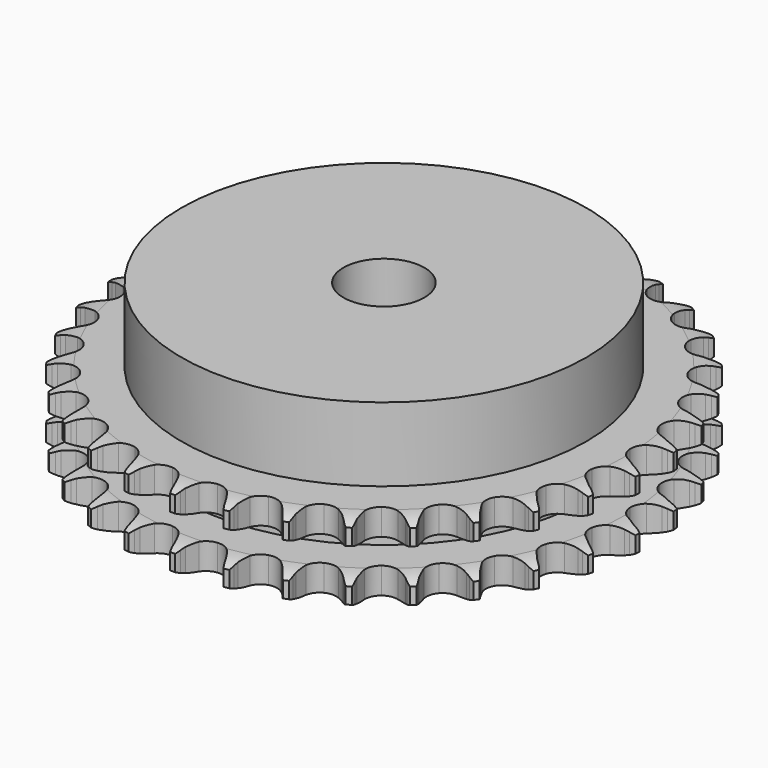
from build123d import *

# Parameters (mm, degrees)
PAD_DEPTH         = 15.4
SKETCH001_R       = 40
PAD001_DEPTH      = 30
SKETCH002_R       = 8
POCKET_DEPTH      = 0.001
POCKET_DEPTH_BACK = 30.001


with BuildPart() as part:
    # Sprocket → Pad (new body)
    with BuildSketch(Plane.XY):
        with BuildLine():
            ThreePointArc((-5.033928, 52.71768), (-4.450917, 51.93788), (-4.025047, 51.062309))
            Line((-4.025047, 51.062309), (-3.715267, 50.23443))
            ThreePointArc((-3.715267, 50.23443), (-3.223756, 49.160429), (-2.584928, 48.16697))
            ThreePointArc((-2.584928, 48.16697), (-1.445345, 47.214591), (0, 46.873047))
            ThreePointArc((0, 46.873047), (1.445345, 47.214591), (2.584928, 48.16697))
            ThreePointArc((2.584928, 48.16697), (3.223756, 49.160429), (3.715267, 50.23443))
            Line((3.715267, 50.23443), (4.025047, 51.062309))
            ThreePointArc((4.025047, 51.062309), (4.450917, 51.93788), (5.033928, 52.71768))
            ThreePointArc((5.033928, 52.71768), (5.458825, 51.841637), (5.711296, 50.901292))
            Line((5.711296, 50.901292), (5.858802, 50.029748))
            ThreePointArc((5.858802, 50.029748), (6.138174, 48.882135), (6.577444, 47.785731))
            ThreePointArc((6.577444, 47.785731), (7.516195, 46.634895), (8.870783, 46.02599))
            ThreePointArc((8.870783, 46.02599), (10.354646, 46.087829), (11.653874, 46.807329))
            Line((11.653874, 46.807329), (13.155055, 48.62351))
            ThreePointArc((13.155055, 48.62351), (13.375447, 49.006789), (13.615915, 49.377801))
            ThreePointArc((13.615915, 49.377801), (14.199792, 50.156953), (14.919845, 50.812326))
            ThreePointArc((14.919845, 50.812326), (15.171271, 49.871701), (15.241218, 48.900569))
            Line((15.241218, 48.900569), (15.221117, 48.016859))
            ThreePointArc((15.221117, 48.016859), (15.278254, 46.837115), (15.50209, 45.677391))
            ThreePointArc((15.50209, 45.677391), (16.206079, 44.369693), (17.420952, 43.515434))
            ThreePointArc((17.420952, 43.515434), (18.889703, 43.295332), (20.301618, 43.75595))
            Line((20.301618, 43.75595), (22.119386, 45.255209))
            ThreePointArc((22.119386, 45.255209), (22.408331, 45.589852), (22.714668, 45.908651))
            ThreePointArc((22.714668, 45.908651), (23.435449, 46.563224), (24.26652, 47.070481))
            ThreePointArc((24.26652, 47.070481), (24.335388, 46.099273), (24.220283, 45.132453))
            Line((24.220283, 45.132453), (24.033302, 44.268517))
            ThreePointArc((24.033302, 44.268517), (23.866138, 43.099278), (23.86645, 41.918151))
            ThreePointArc((23.86645, 41.918151), (24.310234, 40.500854), (25.341483, 39.432117))
            ThreePointArc((25.341483, 39.432117), (26.742037, 38.938029), (28.215609, 39.123116))
            Line((28.215609, 39.123116), (30.284265, 40.251267))
            ThreePointArc((30.284265, 40.251267), (30.63132, 40.525179), (30.992454, 40.780243))
            ThreePointArc((30.992454, 40.780243), (31.824088, 41.286578), (32.736139, 41.627388))
            ThreePointArc((32.736139, 41.627388), (32.619961, 40.660696), (32.323964, 39.733132))
            Line((32.323964, 39.733132), (31.976861, 38.920195))
            ThreePointArc((31.976861, 38.920195), (31.591438, 37.803722), (31.368215, 36.64388))
            ThreePointArc((31.368215, 36.64388), (31.535753, 35.168209), (32.346106, 33.92362))
            ThreePointArc((32.346106, 33.92362), (33.627844, 33.173405), (35.109815, 33.076271))
            Line((35.109815, 33.076271), (37.354591, 33.79254))
            ThreePointArc((37.354591, 33.79254), (37.747213, 33.995821), (38.150092, 34.177931))
            ThreePointArc((38.150092, 34.177931), (39.062521, 34.517727), (40.02259, 34.679771))
            ThreePointArc((40.02259, 34.679771), (39.725563, 33.752536), (39.259373, 32.897752))
            Line((39.259373, 32.897752), (38.764693, 32.165195))
            ThreePointArc((38.764693, 32.165195), (38.174941, 31.141841), (37.73625, 30.045203))
            ThreePointArc((37.73625, 30.045203), (37.621488, 28.564493), (38.181657, 27.189035))
            ThreePointArc((38.181657, 27.189035), (39.298253, 26.209807), (40.73506, 25.833964))
            Line((40.73506, 25.833964), (43.074825, 26.112462))
            ThreePointArc((43.074825, 26.112462), (43.498823, 26.237765), (43.928886, 26.340339))
            ThreePointArc((43.928886, 26.340339), (44.889133, 26.501316), (45.862519, 26.478738))
            ThreePointArc((45.862519, 26.478738), (45.39538, 25.624472), (44.775845, 24.873362))
            Line((44.775845, 24.873362), (44.151468, 24.247662))
            ThreePointArc((44.151468, 24.247662), (43.378702, 23.354412), (42.740399, 22.360615))
            ThreePointArc((42.740399, 22.360615), (42.347485, 20.928382), (42.637224, 19.471768))
            ThreePointArc((42.637224, 19.471768), (43.548321, 18.298918), (44.888034, 17.657949))
            Line((44.888034, 17.657949), (47.238223, 17.488611))
            ThreePointArc((47.238223, 17.488611), (47.678272, 17.531408), (48.119975, 17.550738))
            ThreePointArc((48.119975, 17.550738), (49.093335, 17.527078), (50.044858, 17.320694))
            ThreePointArc((50.044858, 17.320694), (49.424489, 16.570272), (48.674002, 15.949983))
            Line((48.674002, 15.949983), (47.942493, 15.453755))
            ThreePointArc((47.942493, 15.453755), (47.014644, 14.722894), (46.199799, 13.867856))
            ThreePointArc((46.199799, 13.867856), (45.542933, 12.535865), (45.55177, 11.05074))
            ThreePointArc((45.55177, 11.05074), (46.224439, 9.726659), (47.418638, 8.843731))
            Line((47.418638, 8.843731), (49.694308, 8.232677))
            ThreePointArc((49.694308, 8.232677), (50.134505, 8.191421), (50.571884, 8.126808))
            ThreePointArc((50.571884, 8.126808), (51.523176, 7.919367), (52.418445, 7.536635))
            ThreePointArc((52.418445, 7.536635), (51.667269, 6.91718), (50.812953, 6.450131))
            Line((50.812953, 6.450131), (50.000752, 6.101309))
            ThreePointArc((50.000752, 6.101309), (48.951354, 5.559252), (47.989417, 4.873877))
            ThreePointArc((47.989417, 4.873877), (47.092341, 3.690268), (46.819956, 2.230309))
            ThreePointArc((46.819956, 2.230309), (47.229885, 0.802853), (48.235409, -0.290123))
            Line((48.235409, -0.290123), (50.354311, -1.320808))
            ThreePointArc((50.354311, -1.320808), (50.778745, -1.444626), (51.195992, -1.590846))
            ThreePointArc((51.195992, -1.590846), (52.090835, -1.974572), (52.897493, -2.519818))
            ThreePointArc((52.897493, -2.519818), (52.042659, -2.985918), (51.115392, -3.282846))
            Line((51.115392, -3.282846), (50.251854, -3.471654))
            ThreePointArc((50.251854, -3.471654), (49.118835, -3.805315), (48.044573, -4.296258))
            ThreePointArc((48.044573, -4.296258), (46.939709, -5.288704), (46.395947, -6.67073))
            ThreePointArc((46.395947, -6.67073), (46.528321, -8.14997), (47.308826, -9.413491))
            Line((47.308826, -9.413491), (49.194379, -10.826555))
            ThreePointArc((49.194379, -10.826555), (49.58771, -11.028461), (49.969745, -11.251002))
            ThreePointArc((49.969745, -11.251002), (50.775796, -11.797144), (51.464687, -12.485198))
            ThreePointArc((51.464687, -12.485198), (50.537092, -12.781096), (49.570388, -12.897173))
            Line((49.570388, -12.897173), (48.686723, -12.919143))
            ThreePointArc((48.686723, -12.919143), (47.511033, -13.032349), (46.363273, -13.311114))
            ThreePointArc((46.363273, -13.311114), (45.090553, -14.076528), (44.295068, -15.330672))
            ThreePointArc((44.295068, -15.330672), (44.145101, -16.808232), (44.672379, -18.196631))
            Line((44.672379, -18.196631), (46.256433, -19.941003))
            ThreePointArc((46.256433, -19.941003), (46.604445, -20.213698), (46.93746, -20.504518))
            ThreePointArc((46.93746, -20.504518), (47.625587, -21.193337), (48.171814, -21.99933))
            ThreePointArc((48.171814, -21.99933), (47.204982, -22.114333), (46.233781, -22.045361))
            Line((46.233781, -22.045361), (45.361926, -21.8997))
            ThreePointArc((45.361926, -21.8997), (44.186058, -21.78836), (43.006283, -21.844872))
            ThreePointArc((43.006283, -21.844872), (41.611708, -22.35559), (40.59325, -23.436524))
            ThreePointArc((40.59325, -23.436524), (40.166363, -24.859001), (40.421356, -26.322098))
            Line((40.421356, -26.322098), (41.64666, -28.33473))
            ThreePointArc((41.64666, -28.33473), (41.936775, -28.668359), (42.208733, -29.016948))
            ThreePointArc((42.208733, -29.016948), (42.754065, -29.823547), (43.137886, -30.71835))
            ThreePointArc((43.137886, -30.71835), (42.166762, -30.6483), (41.226164, -30.396773))
            Line((41.226164, -30.396773), (40.397632, -30.088745))
            ThreePointArc((40.397632, -30.088745), (39.264084, -29.756882), (38.094934, -29.589099))
            ThreePointArc((38.094934, -29.589099), (36.628907, -29.826663), (35.424286, -30.695318))
            ThreePointArc((35.424286, -30.695318), (34.735908, -32.011301), (34.709399, -33.496215))
            Line((34.709399, -33.496215), (35.531667, -35.704367))
            ThreePointArc((35.531667, -35.704367), (35.7534, -36.086872), (35.954473, -36.480629))
            ThreePointArc((35.954473, -36.480629), (36.3373, -37.375857), (36.544842, -38.327128))
            ThreePointArc((36.544842, -38.327128), (35.604524, -38.074557), (34.728526, -37.649567))
            Line((34.728526, -37.649567), (33.973261, -37.190304))
            ThreePointArc((33.973261, -37.190304), (32.923004, -36.649913), (31.806736, -36.263899))
            ThreePointArc((31.806736, -36.263899), (30.322242, -36.219723), (28.974995, -36.844704))
            ThreePointArc((28.974995, -36.844704), (28.050006, -38.006628), (27.742955, -39.459692))
            Line((27.742955, -39.459692), (28.132468, -41.783555))
            ThreePointArc((28.132468, -41.783555), (28.277804, -42.20111), (28.400724, -42.625805))
            ThreePointArc((28.400724, -42.625805), (28.60721, -43.577306), (28.630973, -44.550663))
            ThreePointArc((28.630973, -44.550663), (27.755447, -44.124701), (26.975709, -43.541607))
            Line((26.975709, -43.541607), (26.321009, -42.947709))
            ThreePointArc((26.321009, -42.947709), (25.392001, -42.218321), (24.368958, -41.628028))
            ThreePointArc((24.368958, -41.628028), (22.919652, -41.303707), (21.478473, -41.662426))
            ThreePointArc((21.478473, -41.662426), (20.350304, -42.628298), (19.773808, -43.996993))
            Line((19.773808, -43.996993), (19.716488, -46.352576))
            ThreePointArc((19.716488, -46.352576), (19.780175, -46.790091), (19.8205, -47.230374))
            ThreePointArc((19.8205, -47.230374), (19.843181, -48.203757), (19.682305, -49.164022))
            ThreePointArc((19.682305, -49.164022), (18.903215, -48.580063), (18.247919, -47.85994))
            Line((18.247919, -47.85994), (17.717447, -47.152872))
            ThreePointArc((17.717447, -47.152872), (16.943265, -46.260849), (16.050423, -45.487611))
            ThreePointArc((16.050423, -45.487611), (14.688686, -44.894868), (13.205663, -44.97436))
            ThreePointArc((13.205663, -44.97436), (11.915089, -45.709269), (11.089984, -46.944127))
            Line((11.089984, -46.944127), (10.587902, -49.246295))
            ThreePointArc((10.587902, -49.246295), (10.567638, -49.687956), (10.52391, -50.127914))
            ThreePointArc((10.52391, -50.127914), (10.361968, -51.087999), (10.022268, -52.000465))
            ThreePointArc((10.022268, -52.000465), (9.367772, -51.279615), (8.860603, -50.44849))
            Line((8.860603, -50.44849), (8.47353, -49.653807))
            ThreePointArc((8.47353, -49.653807), (7.882155, -48.631389), (7.151784, -47.703153))
            ThreePointArc((7.151784, -47.703153), (5.926832, -46.863411), (4.455566, -46.660802))
            ThreePointArc((4.455566, -46.660802), (3.049232, -47.138189), (2.005339, -48.194579))
            Line((2.005339, -48.194579), (1.076643, -50.360124))
            ThreePointArc((1.076643, -50.360124), (0.97316, -50.789968), (0.84696, -51.2137))
            ThreePointArc((0.84696, -51.2137), (0.506246, -52.125788), (0, -52.957475))
            ThreePointArc((0, -52.957475), (-0.506246, -52.125788), (-0.84696, -51.2137))
            Line((-0.84696, -51.2137), (-1.076643, -50.360124))
            ThreePointArc((-1.076643, -50.360124), (-1.463837, -49.244264), (-2.005339, -48.194579))
            ThreePointArc((-2.005339, -48.194579), (-3.049232, -47.138189), (-4.455566, -46.660802))
            ThreePointArc((-4.455566, -46.660802), (-5.926832, -46.863411), (-7.151784, -47.703153))
            Line((-7.151784, -47.703153), (-8.47353, -49.653807))
            ThreePointArc((-8.47353, -49.653807), (-8.656491, -50.056299), (-8.860603, -50.44849))
            ThreePointArc((-8.860603, -50.44849), (-9.367772, -51.279615), (-10.022268, -52.000465))
            ThreePointArc((-10.022268, -52.000465), (-10.361968, -51.087999), (-10.52391, -50.127914))
            Line((-10.52391, -50.127914), (-10.587902, -49.246295))
            ThreePointArc((-10.587902, -49.246295), (-10.756922, -48.077323), (-11.089984, -46.944127))
            ThreePointArc((-11.089984, -46.944127), (-11.915089, -45.709269), (-13.205663, -44.97436))
            ThreePointArc((-13.205663, -44.97436), (-14.688686, -44.894868), (-16.050423, -45.487611))
            Line((-16.050423, -45.487611), (-17.717447, -47.152872))
            ThreePointArc((-17.717447, -47.152872), (-17.973274, -47.513465), (-18.247919, -47.85994))
            ThreePointArc((-18.247919, -47.85994), (-18.903215, -48.580063), (-19.682305, -49.164022))
            ThreePointArc((-19.682305, -49.164022), (-19.843181, -48.203757), (-19.8205, -47.230374))
            Line((-19.8205, -47.230374), (-19.716488, -46.352576))
            ThreePointArc((-19.716488, -46.352576), (-19.661223, -45.172742), (-19.773808, -43.996993))
            ThreePointArc((-19.773808, -43.996993), (-20.350304, -42.628298), (-21.478473, -41.662426))
            ThreePointArc((-21.478473, -41.662426), (-22.919652, -41.303707), (-24.368958, -41.628028))
            Line((-24.368958, -41.628028), (-26.321009, -42.947709))
            ThreePointArc((-26.321009, -42.947709), (-26.640456, -43.25337), (-26.975709, -43.541607))
            ThreePointArc((-26.975709, -43.541607), (-27.755447, -44.124701), (-28.630973, -44.550663))
            ThreePointArc((-28.630973, -44.550663), (-28.60721, -43.577306), (-28.400724, -42.625805))
            Line((-28.400724, -42.625805), (-28.132468, -41.783555))
            ThreePointArc((-28.132468, -41.783555), (-27.854917, -40.635501), (-27.742955, -39.459692))
            ThreePointArc((-27.742955, -39.459692), (-28.050006, -38.006628), (-28.974995, -36.844704))
            ThreePointArc((-28.974995, -36.844704), (-30.322242, -36.219723), (-31.806736, -36.263899))
            Line((-31.806736, -36.263899), (-33.973261, -37.190304))
            ThreePointArc((-33.973261, -37.190304), (-34.344782, -37.429986), (-34.728526, -37.649567))
            ThreePointArc((-34.728526, -37.649567), (-35.604524, -38.074557), (-36.544842, -38.327128))
            ThreePointArc((-36.544842, -38.327128), (-36.3373, -37.375857), (-35.954473, -36.480629))
            Line((-35.954473, -36.480629), (-35.531667, -35.704367))
            ThreePointArc((-35.531667, -35.704367), (-35.041862, -34.629587), (-34.709399, -33.496215))
            ThreePointArc((-34.709399, -33.496215), (-34.735908, -32.011301), (-35.424286, -30.695318))
            ThreePointArc((-35.424286, -30.695318), (-36.628907, -29.826663), (-38.094934, -29.589099))
            Line((-38.094934, -29.589099), (-40.397632, -30.088745))
            ThreePointArc((-40.397632, -30.088745), (-40.807799, -30.253785), (-41.226164, -30.396773))
            ThreePointArc((-41.226164, -30.396773), (-42.166762, -30.6483), (-43.137886, -30.71835))
            ThreePointArc((-43.137886, -30.71835), (-42.754065, -29.823547), (-42.208733, -29.016948))
            Line((-42.208733, -29.016948), (-41.64666, -28.33473))
            ThreePointArc((-41.64666, -28.33473), (-40.962302, -27.372069), (-40.421356, -26.322098))
            ThreePointArc((-40.421356, -26.322098), (-40.166363, -24.859001), (-40.59325, -23.436524))
            ThreePointArc((-40.59325, -23.436524), (-41.611708, -22.35559), (-43.006283, -21.844872))
            Line((-43.006283, -21.844872), (-45.361926, -21.8997))
            ThreePointArc((-45.361926, -21.8997), (-45.795915, -21.984133), (-46.233781, -22.045361))
            ThreePointArc((-46.233781, -22.045361), (-47.204982, -22.114333), (-48.171814, -21.99933))
            ThreePointArc((-48.171814, -21.99933), (-47.625587, -21.193337), (-46.93746, -20.504518))
            Line((-46.93746, -20.504518), (-46.256433, -19.941003))
            ThreePointArc((-46.256433, -19.941003), (-45.402258, -19.125253), (-44.672379, -18.196631))
            ThreePointArc((-44.672379, -18.196631), (-44.145101, -16.808232), (-44.295068, -15.330672))
            ThreePointArc((-44.295068, -15.330672), (-45.090553, -14.076528), (-46.363273, -13.311114))
            Line((-46.363273, -13.311114), (-48.686723, -12.919143))
            ThreePointArc((-48.686723, -12.919143), (-49.128848, -12.919917), (-49.570388, -12.897173))
            ThreePointArc((-49.570388, -12.897173), (-50.537092, -12.781096), (-51.464687, -12.485198))
            ThreePointArc((-51.464687, -12.485198), (-50.775796, -11.797144), (-49.969745, -11.251002))
            Line((-49.969745, -11.251002), (-49.194379, -10.826555))
            ThreePointArc((-49.194379, -10.826555), (-48.201258, -10.187201), (-47.308826, -9.413491))
            ThreePointArc((-47.308826, -9.413491), (-46.528321, -8.14997), (-46.395947, -6.67073))
            ThreePointArc((-46.395947, -6.67073), (-46.939709, -5.288704), (-48.044573, -4.296258))
            Line((-48.044573, -4.296258), (-50.251854, -3.471654))
            ThreePointArc((-50.251854, -3.471654), (-50.686136, -3.388742), (-51.115392, -3.282846))
            ThreePointArc((-51.115392, -3.282846), (-52.042659, -2.985918), (-52.897493, -2.519818))
            ThreePointArc((-52.897493, -2.519818), (-52.090835, -1.974572), (-51.195992, -1.590846))
            Line((-51.195992, -1.590846), (-50.354311, -1.320808))
            ThreePointArc((-50.354311, -1.320808), (-49.258139, -0.880957), (-48.235409, -0.290123))
            ThreePointArc((-48.235409, -0.290123), (-47.229885, 0.802853), (-46.819956, 2.230309))
            ThreePointArc((-46.819956, 2.230309), (-47.092341, 3.690268), (-47.989417, 4.873877))
            Line((-47.989417, 4.873877), (-50.000752, 6.101309))
            ThreePointArc((-50.000752, 6.101309), (-50.411495, 6.264912), (-50.812953, 6.450131))
            ThreePointArc((-50.812953, 6.450131), (-51.667269, 6.91718), (-52.418445, 7.536635))
            ThreePointArc((-52.418445, 7.536635), (-51.523176, 7.919367), (-50.571884, 8.126808))
            Line((-50.571884, 8.126808), (-49.694308, 8.232677))
            ThreePointArc((-49.694308, 8.232677), (-48.534703, 8.457127), (-47.418638, 8.843731))
            ThreePointArc((-47.418638, 8.843731), (-46.224439, 9.726659), (-45.55177, 11.05074))
            ThreePointArc((-45.55177, 11.05074), (-45.542933, 12.535865), (-46.199799, 13.867856))
            Line((-46.199799, 13.867856), (-47.942493, 15.453755))
            ThreePointArc((-47.942493, 15.453755), (-48.314851, 15.692135), (-48.674002, 15.949983))
            ThreePointArc((-48.674002, 15.949983), (-49.424489, 16.570272), (-50.044858, 17.320694))
            ThreePointArc((-50.044858, 17.320694), (-49.093335, 17.527078), (-48.119975, 17.550738))
            Line((-48.119975, 17.550738), (-47.238223, 17.488611))
            ThreePointArc((-47.238223, 17.488611), (-46.057095, 17.489548), (-44.888034, 17.657949))
            ThreePointArc((-44.888034, 17.657949), (-43.548321, 18.298918), (-42.637224, 19.471768))
            ThreePointArc((-42.637224, 19.471768), (-42.347485, 20.928382), (-42.740399, 22.360615))
            Line((-42.740399, 22.360615), (-44.151468, 24.247662))
            ThreePointArc((-44.151468, 24.247662), (-44.471983, 24.552203), (-44.775845, 24.873362))
            ThreePointArc((-44.775845, 24.873362), (-45.39538, 25.624472), (-45.862519, 26.478738))
            ThreePointArc((-45.862519, 26.478738), (-44.889133, 26.501316), (-43.928886, 26.340339))
            Line((-43.928886, 26.340339), (-43.074825, 26.112462))
            ThreePointArc((-43.074825, 26.112462), (-41.914865, 25.889852), (-40.73506, 25.833964))
            ThreePointArc((-40.73506, 25.833964), (-39.298253, 26.209807), (-38.181657, 27.189035))
            ThreePointArc((-38.181657, 27.189035), (-37.621488, 28.564493), (-37.73625, 30.045203))
            Line((-37.73625, 30.045203), (-38.764693, 32.165195))
            ThreePointArc((-38.764693, 32.165195), (-39.021781, 32.524891), (-39.259373, 32.897752))
            ThreePointArc((-39.259373, 32.897752), (-39.725563, 33.752536), (-40.02259, 34.679771))
            ThreePointArc((-40.02259, 34.679771), (-39.062521, 34.517727), (-38.150092, 34.177931))
            Line((-38.150092, 34.177931), (-37.354591, 33.79254))
            ThreePointArc((-37.354591, 33.79254), (-36.257722, 33.354429), (-35.109815, 33.076271))
            ThreePointArc((-35.109815, 33.076271), (-33.627844, 33.173405), (-32.346106, 33.92362))
            ThreePointArc((-32.346106, 33.92362), (-31.535753, 35.168209), (-31.368215, 36.64388))
            Line((-31.368215, 36.64388), (-31.976861, 38.920195))
            ThreePointArc((-31.976861, 38.920195), (-32.161231, 39.322044), (-32.323964, 39.733132))
            ThreePointArc((-32.323964, 39.733132), (-32.619961, 40.660696), (-32.736139, 41.627388))
            ThreePointArc((-32.736139, 41.627388), (-31.824088, 41.286578), (-30.992454, 40.780243))
            Line((-30.992454, 40.780243), (-30.284265, 40.251267))
            ThreePointArc((-30.284265, 40.251267), (-29.290131, 39.61349), (-28.215609, 39.123116))
            ThreePointArc((-28.215609, 39.123116), (-26.742037, 38.938029), (-25.341483, 39.432117))
            ThreePointArc((-25.341483, 39.432117), (-24.310234, 40.500854), (-23.86645, 41.918151))
            Line((-23.86645, 41.918151), (-24.033302, 44.268517))
            ThreePointArc((-24.033302, 44.268517), (-24.13829, 44.697997), (-24.220283, 45.132453))
            ThreePointArc((-24.220283, 45.132453), (-24.335388, 46.099273), (-24.26652, 47.070481))
            ThreePointArc((-24.26652, 47.070481), (-23.435449, 46.563224), (-22.714668, 45.908651))
            Line((-22.714668, 45.908651), (-22.119386, 45.255209))
            ThreePointArc((-22.119386, 45.255209), (-21.263917, 44.440816), (-20.301618, 43.75595))
            ThreePointArc((-20.301618, 43.75595), (-18.889703, 43.295332), (-17.420952, 43.515434))
            ThreePointArc((-17.420952, 43.515434), (-16.206079, 44.369693), (-15.50209, 45.677391))
            Line((-15.50209, 45.677391), (-15.221117, 48.016859))
            ThreePointArc((-15.221117, 48.016859), (-15.242928, 48.458447), (-15.241218, 48.900569))
            ThreePointArc((-15.241218, 48.900569), (-15.171271, 49.871701), (-14.919845, 50.812326))
            ThreePointArc((-14.919845, 50.812326), (-14.199792, 50.156953), (-13.615915, 49.377801))
            Line((-13.615915, 49.377801), (-13.155055, 48.62351))
            ThreePointArc((-13.155055, 48.62351), (-12.469171, 47.661936), (-11.653874, 46.807329))
            ThreePointArc((-11.653874, 46.807329), (-10.354646, 46.087829), (-8.870783, 46.02599))
            ThreePointArc((-8.870783, 46.02599), (-7.516195, 46.634895), (-6.577444, 47.785731))
            Line((-6.577444, 47.785731), (-5.858802, 50.029748))
            ThreePointArc((-5.858802, 50.029748), (-5.796647, 50.467483), (-5.711296, 50.901292))
            ThreePointArc((-5.711296, 50.901292), (-5.458825, 51.841637), (-5.033928, 52.71768))
        make_face()
    extrude(amount=PAD_DEPTH)

    # Sketch → Groove (revolve, cut)
    with BuildSketch(Plane.XZ):
        with BuildLine():
            ThreePointArc((47.791101, 0), (50.027169, 0.253206), (52.15, 1))
            Line((52.15, 1), (52.15, 4.2))
            ThreePointArc((52.15, 4.2), (50.027169, 4.946794), (47.791101, 5.2))
            Line((40, 5.2), (47.791101, 5.2))
            Line((40, 10.2), (40, 5.2))
            Line((47.791101, 10.2), (40, 10.2))
            ThreePointArc((47.791101, 10.2), (50.027169, 10.453206), (52.15, 11.2))
            Line((52.15, 11.2), (52.15, 14.4))
            ThreePointArc((52.15, 14.4), (50.027169, 15.146794), (47.791101, 15.4))
            Line((47.791101, 15.4), (57.791101, 15.4))
            Line((57.791101, 15.4), (57.791101, 0))
            Line((47.791101, 0), (57.791101, 0))
        make_face()
    revolve(axis=Axis((0, 0, 0), (0, 0, 1)), mode=Mode.SUBTRACT)

    # Sketch001 → Pad001 (join)
    with BuildSketch(Plane.XY):
        Circle(SKETCH001_R)
    extrude(amount=PAD001_DEPTH)

    # Sketch002 → Pocket (cut, two sides)
    with BuildSketch(Plane.XY) as pocket_sk:
        Circle(SKETCH002_R)
    extrude(amount=-POCKET_DEPTH, mode=Mode.SUBTRACT)
    extrude(pocket_sk.sketch, amount=POCKET_DEPTH_BACK, mode=Mode.SUBTRACT)


solid = part.part
